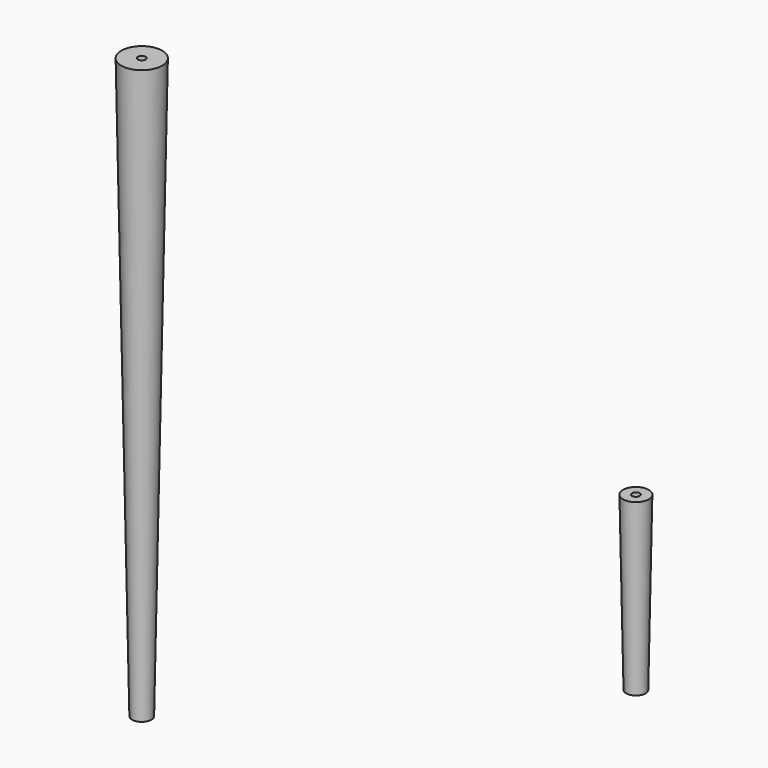
from build123d import *

# Parameters (mm, degrees)
F0_W     = 25
F0_H     = 74
F5_D     = 10
F5_DEPTH = 20
F5_TIP   = 3.0043030951
F7_D     = 10
F7_DEPTH = 20
F7_TIP   = 3.0043030951


with BuildPart() as f1:
    # F0 (on Front) → F1 (revolve)
    with BuildSketch(Plane.XZ):
        Polygon((-274.3089429128, 241.7313559858), (-272.9365393519, 167.7313559858), (-272.9365393519, 241.7313559858), align=None)
        with Locations((-260.4365393519, 204.7313559858)):
            Rectangle(F0_W, F0_H)
        Polygon((-247.9365393519, 167.7313559858), (-272.9365393519, 167.7313559858), (-264.5537500344, -284.2686440142), (-247.9365393519, -284.2686440142), align=None)
        Polygon((-247.9365393519, -284.2686440142), (-264.5537500344, -284.2686440142), (-260.4365393519, -506.2686440142), (-247.9365393519, -506.2686440142), align=None)
    revolve(axis=Axis((-247.9365393519, 0, 204.7313559858), (0, 0, -1)))

    # F5
    with Locations(Plane.XY.offset(241.7313559858)):
        with Locations((-247.9365393519, 0)):
            Hole(F5_D / 2, depth=F5_DEPTH)
            with Locations((0, 0, -(F5_DEPTH + F5_TIP / 2))):  # 118° drill point
                Cone(0, F5_D / 2, F5_TIP, mode=Mode.SUBTRACT)


with BuildPart() as f3:
    # F2 (on Front) → F3 (revolve)
    with BuildSketch(Plane.XZ):
        Polygon((373.495773498, -46.8291637003), (377.6129841805, -268.8291637003), (390.1129841805, -268.8291637003), (390.1129841805, -46.8291637003), align=None)
    revolve(axis=Axis((390.1129841805, 0, 68.1708362997), (0, 0, -1)))

    # F7
    with Locations(Plane.XY.offset(-46.8291637003)):
        with Locations((390.1129841805, 0)):
            Hole(F7_D / 2, depth=F7_DEPTH)
            with Locations((0, 0, -(F7_DEPTH + F7_TIP / 2))):  # 118° drill point
                Cone(0, F7_D / 2, F7_TIP, mode=Mode.SUBTRACT)


solid = Compound([f1.part, f3.part])
